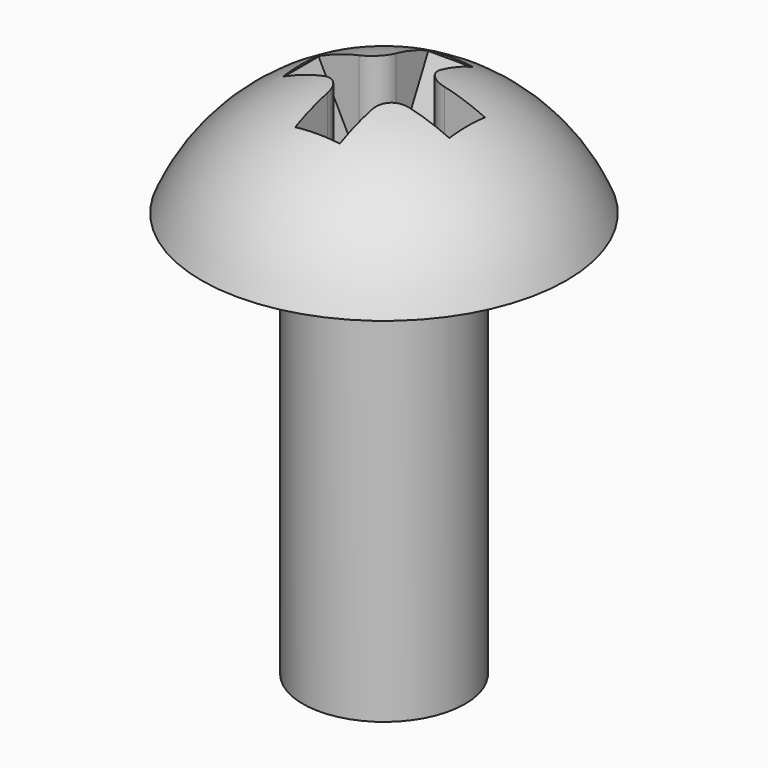
from build123d import *

# Parameters (mm, degrees)
F2_R     = 2
F3_DEPTH = 10
F5_START = -0.5
F5_DEPTH = 2.501
F6_SIZE2 = 1
F6_SIZE  = 2
F7_R     = 0.5


with BuildPart() as f1:
    # F0 (on Front) → F1 (revolve)
    with BuildSketch(Plane.XZ):
        with BuildLine():
            Line((0, 0), (0, 3))
            ThreePointArc((0, 3), (-2.7041634566, 2.1812451849), (-4.5, 0))
            Line((-4.5, 0), (0, 0))
        make_face()
    revolve(axis=Axis((0, 0, 1.5), (0, 0, -1)))

    # F2 (on face) → F3 (join)
    with BuildSketch(Plane(origin=(0, 0, 0), x_dir=(1, 0, 0), z_dir=(0, 0, -1))):
        Circle(F2_R)
    extrude(amount=F3_DEPTH)

    # F4 (on face) → F5 (cut)
    with BuildSketch(Plane(origin=(0, 0, 0), x_dir=(1, 0, 0), z_dir=(0, 0, -1)).offset(F5_START)):
        Polygon((0.55, 2.05), (0, 2.05), (-0.55, 2.05), (-0.55, 0.55), (-2.05, 0.55), (-2.05, 0), (-2.05, -0.55), (-0.55, -0.55), (-0.55, -2.05), (0, -2.05), (0.55, -2.05), (0.55, -0.55), (2.05, -0.55), (2.05, 0), (2.05, 0.55), (0.55, 0.55), align=None)
    extrude(amount=-F5_DEPTH, mode=Mode.SUBTRACT)

    # F6
    f6_edges = [f1.edges().sort_by_distance(p)[0] for p in [
        (2.05, 0, 0.5),
        (0, 2.05, 0.5),
        (0, -2.05, 0.5),
        (-2.05, 0, 0.5),
    ]]
    chamfer(f6_edges, length=F6_SIZE, length2=F6_SIZE2)

    # F7
    f7_edges = [f1.edges().sort_by_distance(p)[0] for p in [
        (0.55, -0.55, 1.718774),
        (0.55, 0.55, 1.718774),
        (-0.55, -0.55, 1.718774),
        (-0.55, 0.55, 1.718774),
    ]]
    fillet(f7_edges, radius=F7_R)


solid = f1.part
